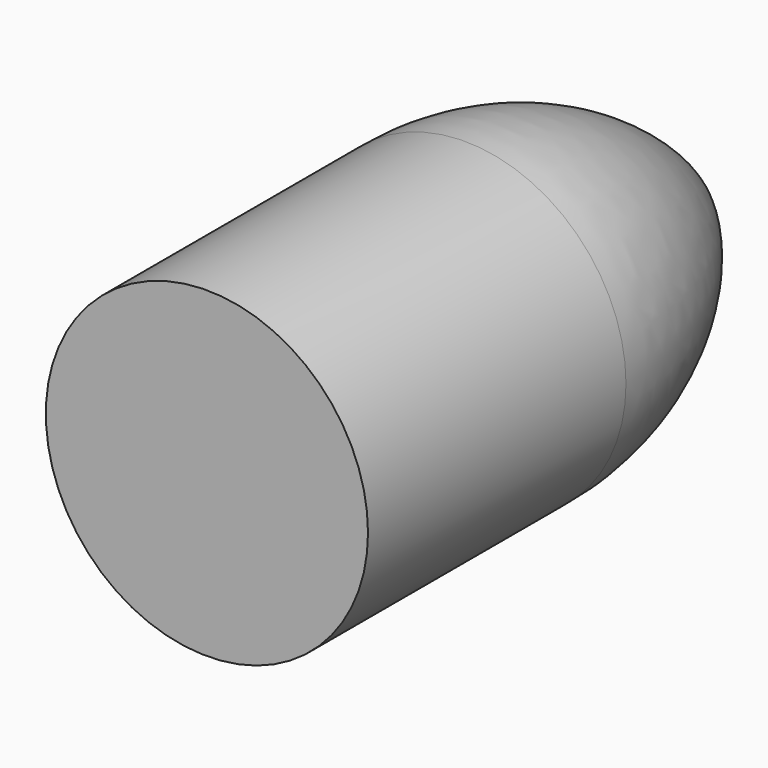
from build123d import *


with BuildPart() as f1:
    # F0 (on Top) → F1 (revolve)
    with BuildSketch(Plane.XY):
        with BuildLine():
            Line((-34.085982, 99.022888), (-34.085982, -29.55609))
            Line((-34.085982, -29.55609), (30.147213, -29.55609))
            Line((30.147213, -29.55609), (30.147213, 99.022888))
            ThreePointArc((30.147213, 99.022888), (13.013703, 165.236778), (-34.085982, 214.829683))
            Line((-34.085982, 214.829683), (-34.085982, 99.022888))
        make_face()
    revolve(axis=Axis((-34.085982, 34.733399, 0), (0, 1, 0)))


solid = f1.part
